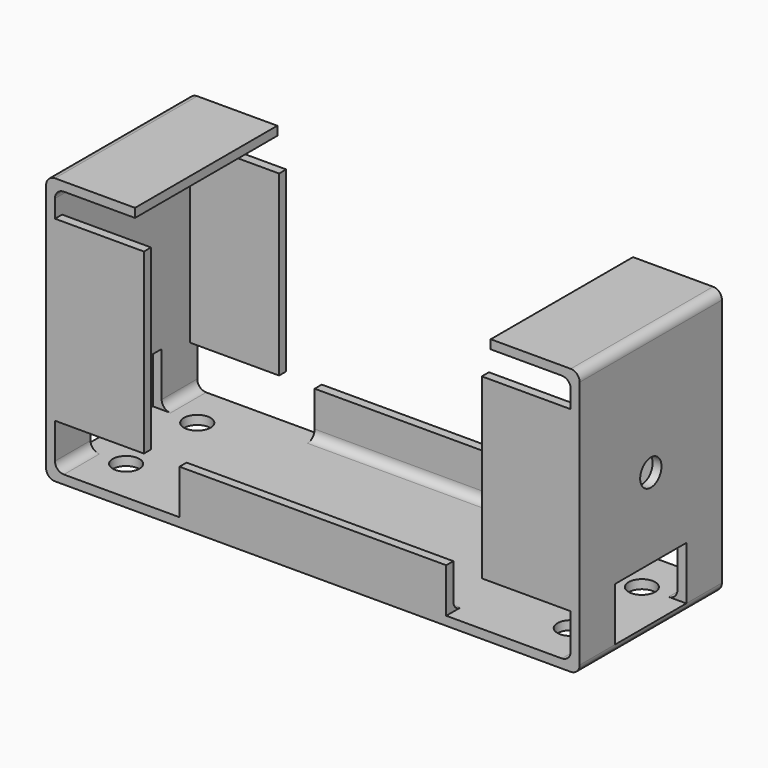
from build123d import *

# Parameters (mm, degrees)
SKETCH_W        = 60
SKETCH_H        = 30
PAD_DEPTH       = 20
SKETCH001_W     = 14
SKETCH001_H     = 5
POCKET_DEPTH    = 20.001
SKETCH002_W     = 14
SKETCH002_H     = 5
POCKET001_DEPTH = 20.001
SKETCH003_W     = 38
SKETCH003_H     = 20
POCKET002_DEPTH = 20.001
SKETCH005_W     = 38
SKETCH005_H     = 5
POCKET003_DEPTH = 20.001
SKETCH006_W     = 9
SKETCH006_H     = 3
POCKET004_DEPTH = 20.001
SKETCH007_W     = 1
SKETCH007_H     = 4
POCKET005_DEPTH = 20.001
SKETCH008_W     = 30
SKETCH008_H     = 18
POCKET006_DEPTH = 5
FILLET_R        = 1
FILLET001_R     = 1
FILLET002_R     = 1
FILLET003_R     = 1
FILLET004_R     = 1
FILLET005_R     = 1
FILLET006_R     = 1
FILLET007_R     = 1
SKETCH011_W     = 20
SKETCH011_H     = 18
POCKET007_DEPTH = 10
SKETCH012_W     = 20
SKETCH012_H     = 18
POCKET008_DEPTH = 10
FILLET008_R     = 1
FILLET009_R     = 1
SKETCH014_W     = 6
SKETCH014_H     = 10
POCKET009_DEPTH = 60.001
SKETCH015_R     = 1.5
POCKET010_DEPTH = 5
SKETCH016_R     = 1.5
POCKET011_DEPTH = 60.001


with BuildPart() as part:
    # Sketch → Pad (new body)
    with BuildSketch(Plane.XZ):
        with Locations((30, 15)):
            Rectangle(SKETCH_W, SKETCH_H)
    extrude(amount=PAD_DEPTH)

    # Sketch001 (on Face6 of Pad) → Pocket (cut, through all)
    with BuildSketch(Plane.XZ.offset(20)):
        with Locations((8, 3.5)):
            Rectangle(SKETCH001_W, SKETCH001_H)
    extrude(amount=-POCKET_DEPTH, mode=Mode.SUBTRACT)

    # Sketch002 (on Face5 of Pocket) → Pocket001 (cut, through all)
    with BuildSketch(Plane.XZ.offset(20)):
        with Locations((52, 3.5)):
            Rectangle(SKETCH002_W, SKETCH002_H)
    extrude(amount=-POCKET001_DEPTH, mode=Mode.SUBTRACT)

    # Sketch003 (on Face5 of Pocket001) → Pocket002 (cut, through all)
    with BuildSketch(Plane.XZ.offset(20)):
        with Locations((30, 16)):
            Rectangle(SKETCH003_W, SKETCH003_H)
    extrude(amount=-POCKET002_DEPTH, mode=Mode.SUBTRACT)

    # Sketch005 (on Face5 of Pocket002) → Pocket003 (cut, through all)
    with BuildSketch(Plane.XZ.offset(20)):
        with Locations((30, 28.5)):
            Rectangle(SKETCH005_W, SKETCH005_H)
    extrude(amount=-POCKET003_DEPTH, mode=Mode.SUBTRACT)

    # Sketch006 (on Face5 of Pocket003) → Pocket004 (cut, through all)
    with BuildSketch(Plane.XZ.offset(20)):
        with Locations((5.5, 27.5)):
            Rectangle(SKETCH006_W, SKETCH006_H)
        with Locations((54.5, 27.5)):
            Rectangle(SKETCH006_W, SKETCH006_H)
    extrude(amount=-POCKET004_DEPTH, mode=Mode.SUBTRACT)

    # Sketch007 (on Face5 of Pocket004) → Pocket005 (cut, through all)
    with BuildSketch(Plane.XZ.offset(20)):
        with Locations((10.5, 28)):
            Rectangle(SKETCH007_W, SKETCH007_H)
        with Locations((49.5, 28)):
            Rectangle(SKETCH007_W, SKETCH007_H)
    extrude(amount=-POCKET005_DEPTH, mode=Mode.SUBTRACT)

    # Sketch008 (on Face18 of Pocket005) → Pocket006 (cut)
    with BuildSketch(Plane(origin=(0, 0, 6), x_dir=(-1, 0, 0), z_dir=(0, 0, 1))):
        with Locations((-30, 10)):
            Rectangle(SKETCH008_W, SKETCH008_H)
    extrude(amount=-POCKET006_DEPTH, mode=Mode.SUBTRACT)

    # Fillet
    fillet_edges = [part.edges().sort_by_distance(p)[0] for p in [
        (60, -10, 0),
    ]]
    fillet(fillet_edges, radius=FILLET_R)

    # Fillet001
    fillet001_edges = [part.edges().sort_by_distance(p)[0] for p in [
        (0, -10, 0),
    ]]
    fillet(fillet001_edges, radius=FILLET001_R)

    # Fillet002
    fillet002_edges = [part.edges().sort_by_distance(p)[0] for p in [
        (0, -10, 30),
    ]]
    fillet(fillet002_edges, radius=FILLET002_R)

    # Fillet003
    fillet003_edges = [part.edges().sort_by_distance(p)[0] for p in [
        (60, -10, 30),
    ]]
    fillet(fillet003_edges, radius=FILLET003_R)

    # Fillet004
    fillet004_edges = [part.edges().sort_by_distance(p)[0] for p in [
        (1, -10, 29),
    ]]
    fillet(fillet004_edges, radius=FILLET004_R)

    # Fillet005
    fillet005_edges = [part.edges().sort_by_distance(p)[0] for p in [
        (1, -10, 1),
    ]]
    fillet(fillet005_edges, radius=FILLET005_R)

    # Fillet006
    fillet006_edges = [part.edges().sort_by_distance(p)[0] for p in [
        (59, -10, 29),
    ]]
    fillet(fillet006_edges, radius=FILLET006_R)

    # Fillet007
    fillet007_edges = [part.edges().sort_by_distance(p)[0] for p in [
        (59, -10, 1),
    ]]
    fillet(fillet007_edges, radius=FILLET007_R)

    # Sketch011 (on Face6 of Fillet007) → Pocket007 (cut)
    with BuildSketch(Plane(origin=(49, 0, 0), x_dir=(0, 0, -1), z_dir=(-1, 0, 0))):
        with Locations((-16, 10)):
            Rectangle(SKETCH011_W, SKETCH011_H)
    extrude(amount=-POCKET007_DEPTH, mode=Mode.SUBTRACT)

    # Sketch012 (on Face21 of Pocket007) → Pocket008 (cut)
    with BuildSketch(Plane(origin=(11, 0, 0), x_dir=(0, 0, 1), z_dir=(1, 0, 0))):
        with Locations((16, 10)):
            Rectangle(SKETCH012_W, SKETCH012_H)
    extrude(amount=-POCKET008_DEPTH, mode=Mode.SUBTRACT)

    # Fillet008
    fillet008_edges = [part.edges().sort_by_distance(p)[0] for p in [
        (30, -19, 1),
    ]]
    fillet(fillet008_edges, radius=FILLET008_R)

    # Fillet009
    fillet009_edges = [part.edges().sort_by_distance(p)[0] for p in [
        (30, -1, 1),
    ]]
    fillet(fillet009_edges, radius=FILLET009_R)

    # Sketch014 (on Face33 of Fillet009) → Pocket009 (cut, through all)
    with BuildSketch(Plane(origin=(60, 0, 0), x_dir=(0, 0, 1), z_dir=(1, 0, 0))):
        with Locations((4, 10)):
            Rectangle(SKETCH014_W, SKETCH014_H)
    extrude(amount=-POCKET009_DEPTH, mode=Mode.SUBTRACT)

    # Sketch015 (on Face32 of Pocket009) → Pocket010 (cut)
    with BuildSketch(Plane(origin=(0, 0, 0), x_dir=(1, 0, 0), z_dir=(0, 0, -1))):
        with Locations((55, 5)):
            Circle(SKETCH015_R)
        with Locations((55, 15)):
            Circle(SKETCH015_R)
        with Locations((5, 5)):
            Circle(SKETCH015_R)
        with Locations((5, 15)):
            Circle(SKETCH015_R)
    extrude(amount=-POCKET010_DEPTH, mode=Mode.SUBTRACT)

    # Sketch016 (on Face30 of Pocket010) → Pocket011 (cut, through all)
    with BuildSketch(Plane(origin=(0, 0, 0), x_dir=(0, 0, -1), z_dir=(-1, 0, 0))):
        with Locations((-15.994056, 9.992209)):
            Circle(SKETCH016_R)
    extrude(amount=-POCKET011_DEPTH, mode=Mode.SUBTRACT)


solid = part.part
